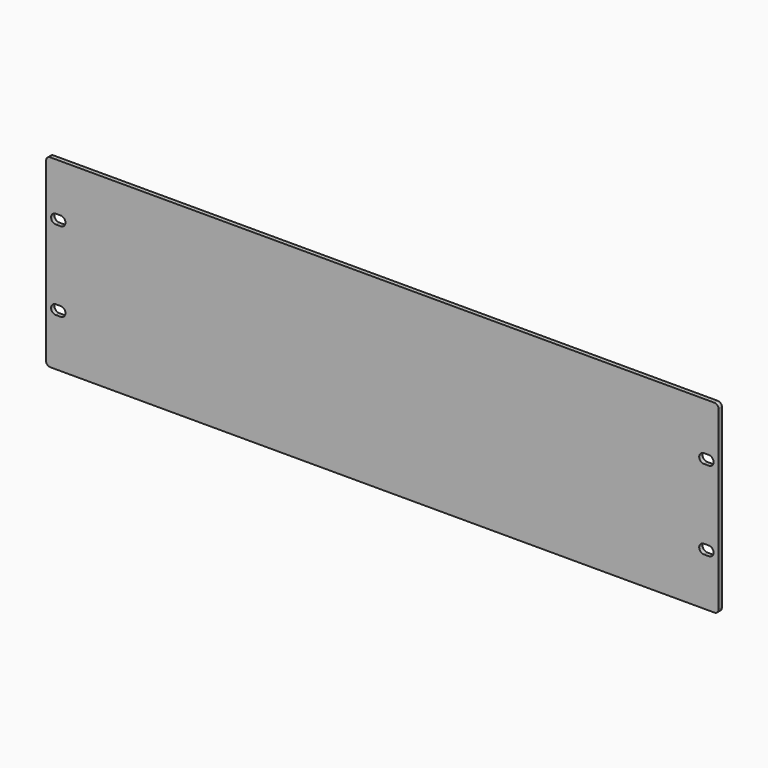
from build123d import *

# Parameters (mm, degrees)
F0_W     = 482.6
F0_H     = 132.6
F1_DEPTH = 3
F2_R     = 3
F4_DEPTH = 3


with BuildPart() as f1:
    # F0 (on Front) → F1 (new body)
    with BuildSketch(Plane.XZ):
        Rectangle(F0_W, F0_H)
    extrude(amount=-F1_DEPTH)

    # F2
    f2_edges = [f1.edges().sort_by_distance(p)[0] for p in [
        (-241.3, 1.5, 66.3),
        (241.3, 1.5, 66.3),
        (241.3, 1.5, -66.3),
        (-241.3, 1.5, -66.3),
    ]]
    fillet(f2_edges, radius=F2_R)

    # F3 (on Front) → F4 (cut, through all)
    with BuildSketch(Plane.XZ):
        with BuildLine():
            Line((-234.3, 25.2), (-230.8, 25.2))
            ThreePointArc((-230.8, 25.2), (-227.4, 28.6), (-230.8, 32))
            Line((-230.8, 32), (-234.3, 32))
            ThreePointArc((-234.3, 32), (-237.7, 28.6), (-234.3, 25.2))
        make_face()
        with BuildLine():
            ThreePointArc((230.8, 32), (227.4, 28.6), (230.8, 25.2))
            Line((230.8, 25.2), (234.3, 25.2))
            ThreePointArc((234.3, 25.2), (237.7, 28.6), (234.3, 32))
            Line((234.3, 32), (230.8, 32))
        make_face()
        with BuildLine():
            Line((230.8, -32), (234.3, -32))
            ThreePointArc((234.3, -32), (237.7, -28.6), (234.3, -25.2))
            Line((234.3, -25.2), (230.8, -25.2))
            ThreePointArc((230.8, -25.2), (227.4, -28.6), (230.8, -32))
        make_face()
        with BuildLine():
            ThreePointArc((-230.8, -32), (-227.4, -28.6), (-230.8, -25.2))
            Line((-230.8, -25.2), (-234.3, -25.2))
            ThreePointArc((-234.3, -25.2), (-237.7, -28.6), (-234.3, -32))
            Line((-234.3, -32), (-230.8, -32))
        make_face()
    extrude(amount=-F4_DEPTH, mode=Mode.SUBTRACT)


solid = f1.part
